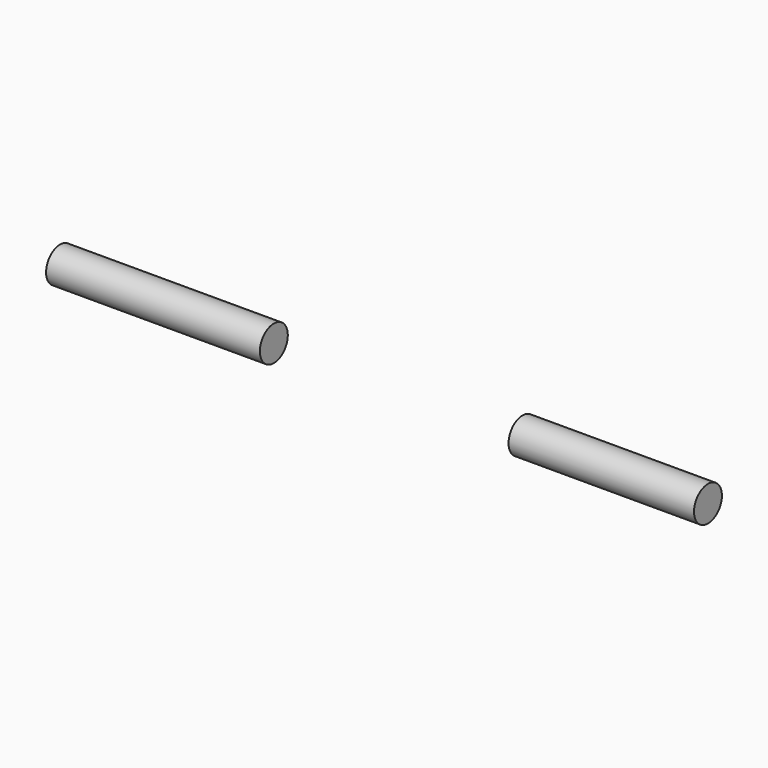
from build123d import *


with BuildPart() as f1:
    # F0 (on Front) → F1 (revolve)
    with BuildSketch(Plane.XZ):
        Polygon((-36.13355, 0), (-12.582218, 0), (-12.582218, 2.580968), (-44.199072, 2.580968), (-44.199072, 0), (-38.069274, 0), align=None)
        Polygon((24.196576, 2.580968), (24.196576, 0), (51.619358, 0), (51.619358, 2.580968), (46.457417, 2.580968), (44.844318, 2.580968), align=None)
    revolve(axis=Axis((-28.390645, 0, 0), (-1, 0, 0)))


solid = f1.part
